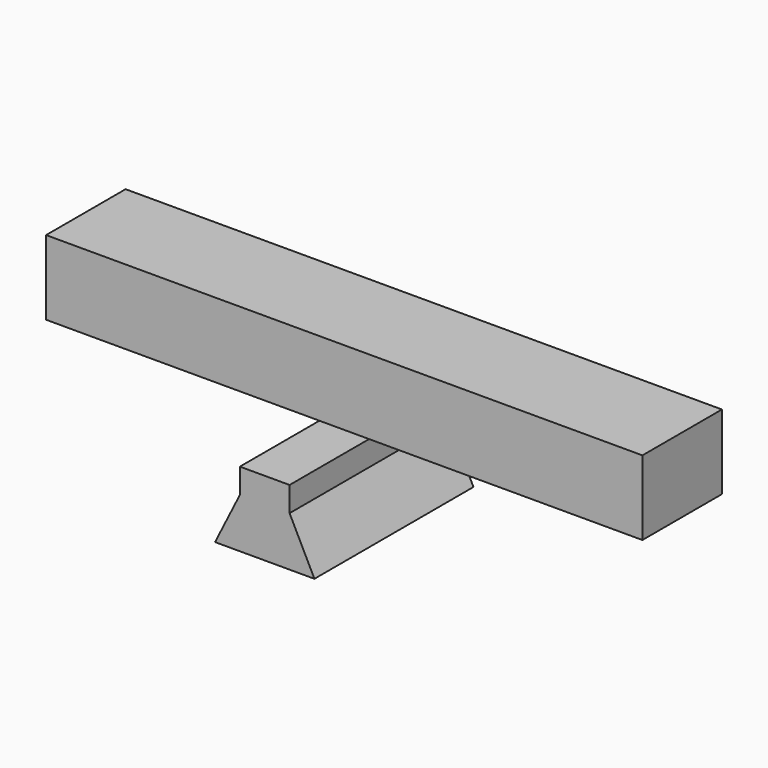
from build123d import *

# Parameters (mm, degrees)
F1_DEPTH = 25.4
F3_DEPTH = 9.525


with BuildPart() as f1:
    # F0 (on Front) → F1 (new body)
    with BuildSketch(Plane.XZ):
        Polygon((-6.35, 0), (0, 0), (6.35, 0), (3.175, 6.35), (3.175, 9.525), (-3.175, 9.525), (-3.175, 6.35), align=None)
    extrude(amount=F1_DEPTH)

    # F2 (on face) → F3 (join)
    with BuildSketch(Plane.XY.offset(9.525)):
        Polygon((38.1, 0), (0, 0), (-38.1, 0), (-38.1, -12.7), (0, -12.7), (38.1, -12.7), align=None)
    extrude(amount=F3_DEPTH)


solid = f1.part
